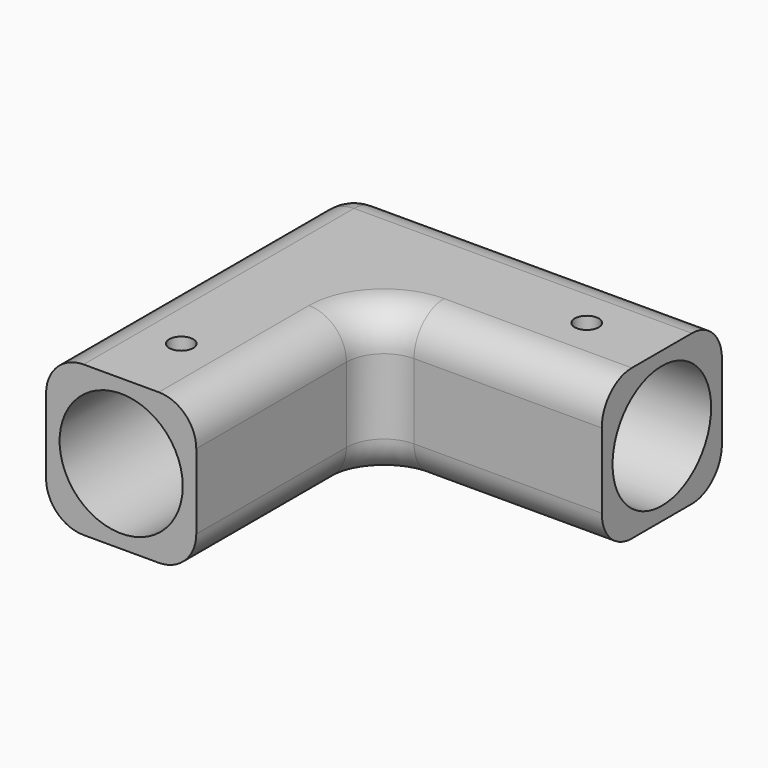
from build123d import *

# Parameters (mm, degrees)
PAD009_DEPTH    = 20
SKETCH027_R     = 8.2
POCKET015_DEPTH = 30
SKETCH028_R     = 8.2
POCKET016_DEPTH = 30
SKETCH031_R     = 1.6
POCKET018_DEPTH = 5
FILLET006_R     = 5


with BuildPart() as part:
    # Sketch026 → Pad009 (new body)
    with BuildSketch(Plane.XY):
        Polygon((-20, 20), (-20, -30), (0, -30), (0, 0), (30, 0), (30, 20), align=None)
    extrude(amount=PAD009_DEPTH)

    # Sketch027 → Pocket015 (cut)
    with BuildSketch(Plane.XZ.offset(30)):
        with Locations((-10, 10)):
            Circle(SKETCH027_R)
    extrude(amount=-POCKET015_DEPTH, mode=Mode.SUBTRACT)

    # Sketch028 → Pocket016 (cut)
    with BuildSketch(Plane.YZ.offset(30)):
        with Locations((10, 10)):
            Circle(SKETCH028_R)
    extrude(amount=-POCKET016_DEPTH, mode=Mode.SUBTRACT)

    # Sketch031 → Pocket018 (cut)
    with BuildSketch(Plane.XY.offset(20)):
        with Locations((20, 10)):
            Circle(SKETCH031_R)
        with Locations((-10, -20)):
            Circle(SKETCH031_R)
    extrude(amount=-POCKET018_DEPTH, mode=Mode.SUBTRACT)

    # Fillet006
    fillet006_edges = [part.edges().sort_by_distance(p)[0] for p in [
        (15, 0, 20),
        (0, -15, 20),
        (-20, -5, 20),
        (5, 20, 20),
        (5, 20, 0),
        (-20, 20, 10),
        (-20, -5, 0),
        (0, -15, 0),
        (15, 0, 0),
        (0, 0, 10),
    ]]
    fillet(fillet006_edges, radius=FILLET006_R)


solid = part.part
